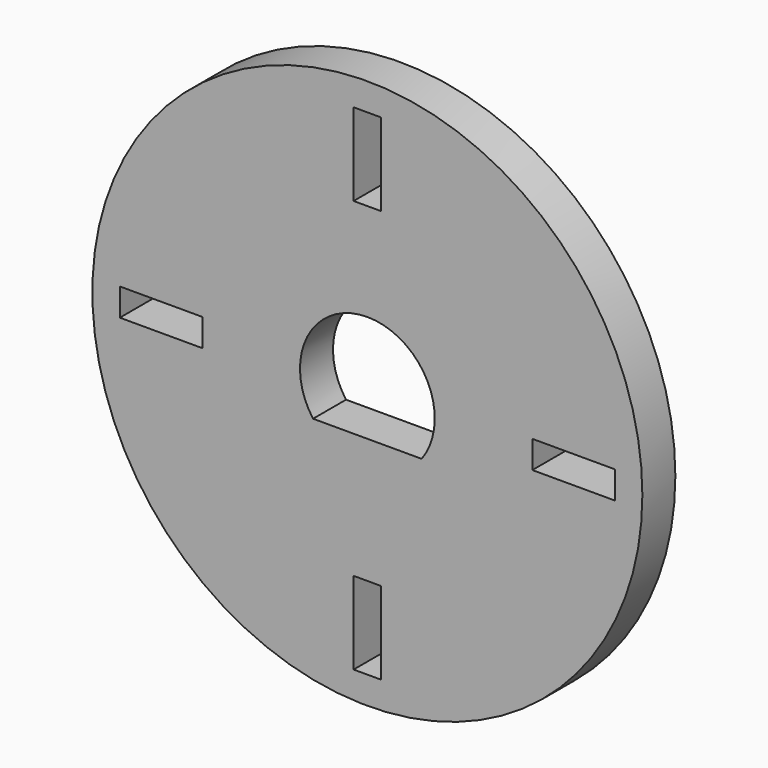
from build123d import *

# Parameters (mm, degrees)
F0_R     = 20
F1_DEPTH = 3


with BuildPart() as f1:
    # F0 (on Front) → F1 (new body)
    with BuildSketch(Plane.XZ):
        Circle(F0_R)
        Polygon((-1, -12), (0, -12), (1, -12), (1, -18), (-1, -18), align=None, mode=Mode.SUBTRACT)
        Polygon((-12, 1), (-12, 0), (-12, -1), (-18, -1), (-18, 1), align=None, mode=Mode.SUBTRACT)
        with BuildLine():
            ThreePointArc((-3.949684, -2.9), (0, 4.9), (3.949684, -2.9))
            Line((3.949684, -2.9), (-3.949684, -2.9))
        make_face(mode=Mode.SUBTRACT)
        Polygon((12, -1), (12, 0), (12, 1), (18, 1), (18, -1), align=None, mode=Mode.SUBTRACT)
        Polygon((1, 12), (0, 12), (-1, 12), (-1, 18), (1, 18), align=None, mode=Mode.SUBTRACT)
    extrude(amount=F1_DEPTH)


solid = f1.part
